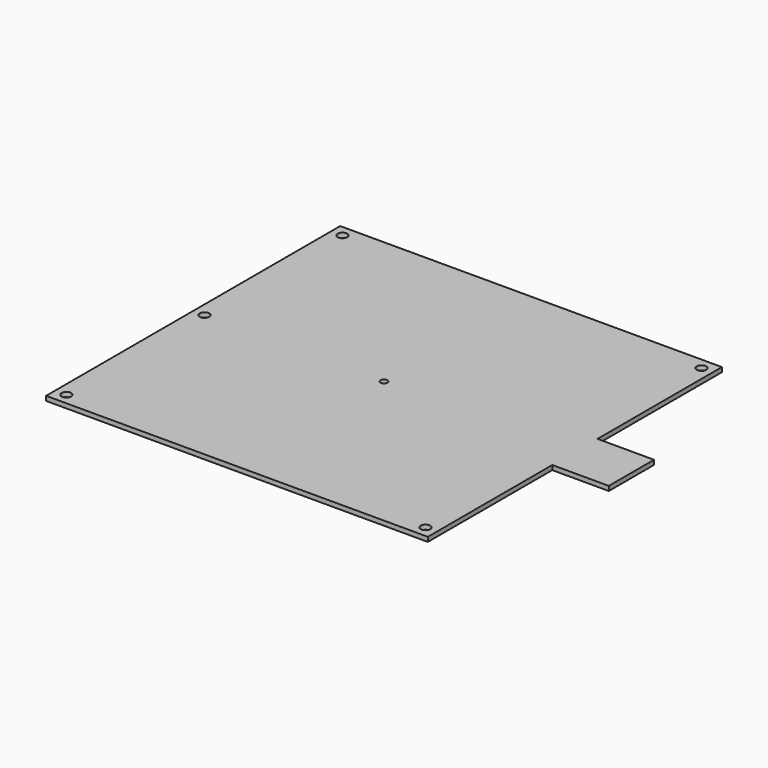
from build123d import *

# Parameters (mm, degrees)
F0_R     = 1.7
F0_R_2   = 1.2
F0_W     = 20
F0_H     = 20
F1_DEPTH = 1.6


with BuildPart() as f1:
    # F0 (on Top) → F1 (new body)
    with BuildSketch(Plane.XY):
        Polygon((67.5, 65), (-67.5, 65), (-67.5, -65), (67.5, -65), (67.5, -10), (67.5, 10), align=None)
        with Locations((-63.5, -61)):
            Circle(F0_R, mode=Mode.SUBTRACT)
        with Locations((63.5, -61)):
            Circle(F0_R, mode=Mode.SUBTRACT)
        with Locations((-63.5, 0)):
            Circle(F0_R, mode=Mode.SUBTRACT)
        Circle(F0_R_2, mode=Mode.SUBTRACT)
        with Locations((-63.5, 61)):
            Circle(F0_R, mode=Mode.SUBTRACT)
        with Locations((63.5, 61)):
            Circle(F0_R, mode=Mode.SUBTRACT)
        with Locations((77.5, 0)):
            Rectangle(F0_W, F0_H)
    extrude(amount=F1_DEPTH)


solid = f1.part
